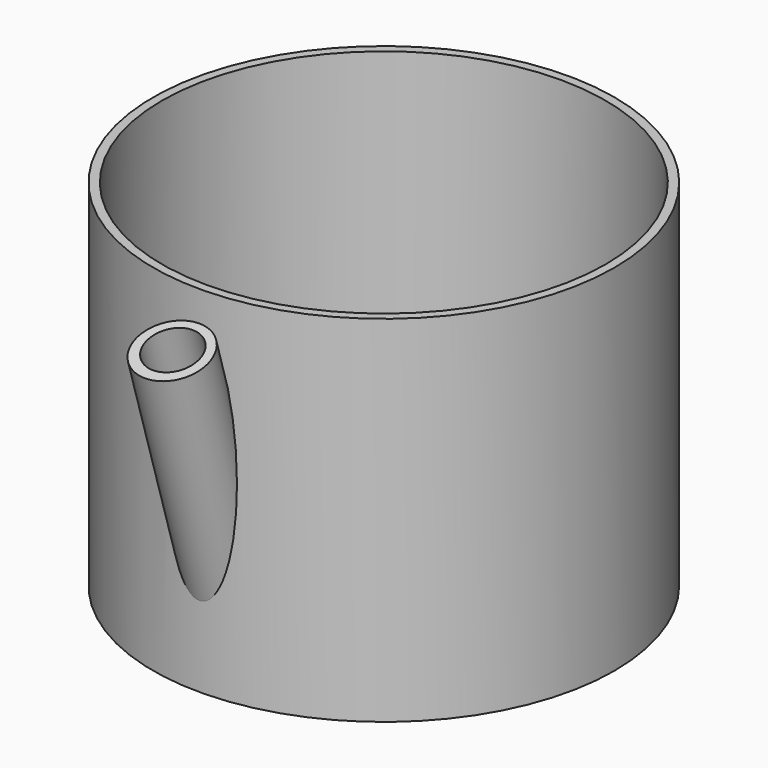
from build123d import *

# Parameters (mm, degrees)
F0_R      = 25
F1_DEPTH  = 1
F0_R_2    = 26
F2_DEPTH  = 40
F3_R      = 4.1
F3_R_2    = 3.1
F4_DEPTH  = 2
F8_R      = 4
F10_R     = 2.9337522173
F11_DEPTH = 30


with BuildPart() as f1:
    # F0 (on Top) → F1 (new body)
    with BuildSketch(Plane.XY):
        Circle(F0_R)
    extrude(amount=F1_DEPTH)

    # F0 (on Top) → F2 (join)
    with BuildSketch(Plane.XY):
        Circle(F0_R_2)
        Circle(F0_R, mode=Mode.SUBTRACT)
    extrude(amount=F2_DEPTH)

    # F3 (on face) → F4 (join)
    with BuildSketch(Plane.XY):
        Circle(F3_R)
        Circle(F3_R_2, mode=Mode.SUBTRACT)
    extrude(amount=F4_DEPTH)

    # F8 (on line) → F9 (join, up to the next surface of F1)
    with BuildSketch(Plane(origin=(0, -12.3952665478, 40.7209588451), x_dir=(1, 0, 0), z_dir=(0, -0.2912031401, 0.9566612416))):
        with Locations((0, -18.2252209634)):
            Circle(F8_R)
    extrude(until=Until.NEXT, dir=(0, 0.2912031401, -0.9566612416))

    # F10 (on face) → F11 (cut)
    with BuildSketch(Plane(origin=(0, -12.3952665478, 40.7209588451), x_dir=(1, 0, 0), z_dir=(0, -0.2912031401, 0.9566612416))):
        with Locations((0, -18.1172303855)):
            Circle(F10_R)
    extrude(amount=-F11_DEPTH, mode=Mode.SUBTRACT)


solid = f1.part
